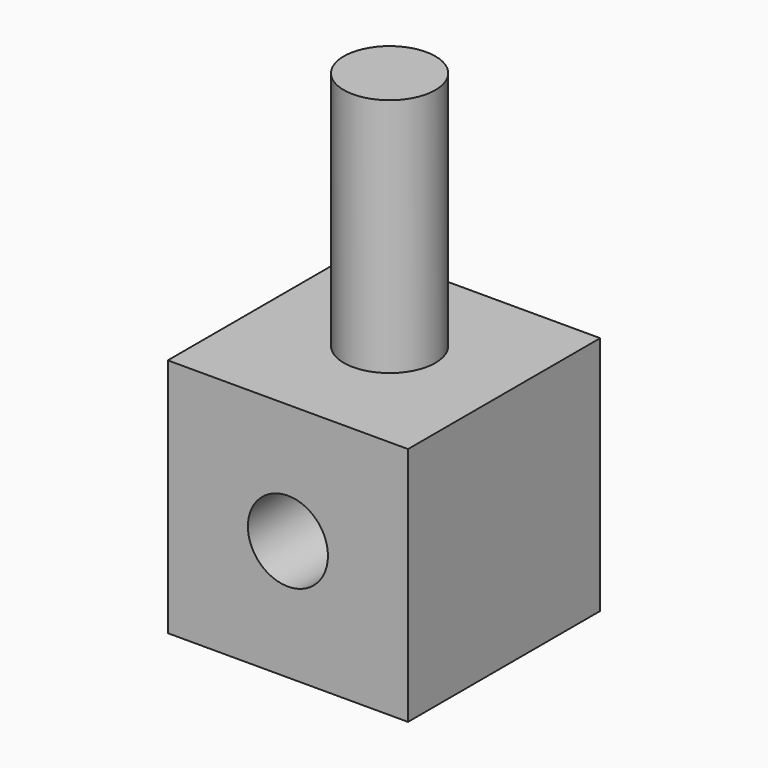
from build123d import *

# Parameters (mm, degrees)
F0_W     = 30
F0_H     = 30
F1_DEPTH = 30
F2_R     = 5
F3_DEPTH = 30
F4_R     = 5.7203
F5_DEPTH = 30


with BuildPart() as f1:
    # F0 (on Front) → F1 (new body)
    with BuildSketch(Plane.XZ):
        Rectangle(F0_W, F0_H)
    extrude(amount=-F1_DEPTH)

    # F2 (on face) → F3 (cut)
    with BuildSketch(Plane.XZ):
        Circle(F2_R)
    extrude(amount=-F3_DEPTH, mode=Mode.SUBTRACT)

    # F4 (on face) → F5 (join)
    with BuildSketch(Plane.XY.offset(15)):
        with Locations((0, 15.874371)):
            Circle(F4_R)
    extrude(amount=F5_DEPTH)


solid = f1.part
